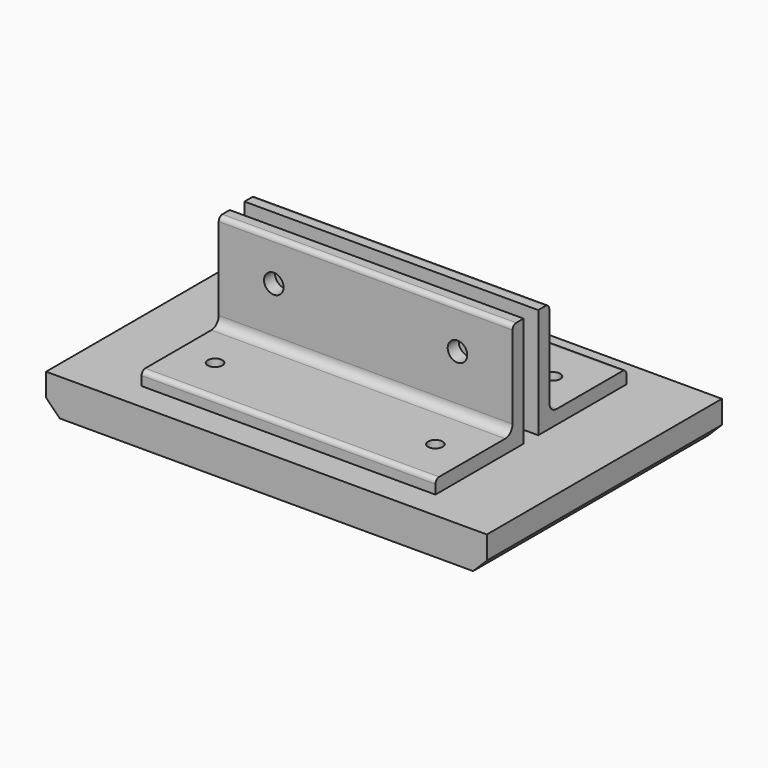
from build123d import *

# Parameters (mm, degrees)
F0_W           = 304.8
F0_H           = 25.4
F1_DEPTH       = 101.6
F3_DEPTH       = 101.6
F5_D           = 10.0838
F5_CSINK_D     = 19.8374
F5_CSINK_ANGLE = 82
F7_D           = 13.49248
F8_SIZE        = 9.525
F9_SIZE        = 9.525


with BuildPart() as f1:
    # F0 (on Front) → F1 (new body, symmetric)
    with BuildSketch(Plane.XZ):
        Rectangle(F0_W, F0_H)
    extrude(amount=F1_DEPTH, both=True)

    # F2 (on Right) → F3 (join, symmetric)
    with BuildSketch(Plane.YZ):
        with BuildLine():
            Line((-82.55, 19.05), (-82.55, 12.7))
            Line((-82.55, 12.7), (-6.35, 12.7))
            Line((-6.35, 12.7), (-6.35, 88.9))
            Line((-6.35, 88.9), (-12.7, 88.9))
            ThreePointArc((-12.7, 88.9), (-14.9450640303, 87.9700640303), (-15.875, 85.725))
            Line((-15.875, 85.725), (-15.875, 28.575))
            ThreePointArc((-15.875, 28.575), (-17.7348719395, 24.0848719395), (-22.225, 22.225))
            Line((-22.225, 22.225), (-79.375, 22.225))
            ThreePointArc((-79.375, 22.225), (-81.6200640303, 21.2950640303), (-82.55, 19.05))
        make_face()
        with BuildLine():
            Line((6.35, 88.9), (6.35, 12.7))
            Line((6.35, 12.7), (82.55, 12.7))
            Line((82.55, 12.7), (82.55, 19.05))
            ThreePointArc((82.55, 19.05), (81.6200640303, 21.2950640303), (79.375, 22.225))
            Line((79.375, 22.225), (22.225, 22.225))
            ThreePointArc((22.225, 22.225), (17.7348719395, 24.0848719395), (15.875, 28.575))
            Line((15.875, 28.575), (15.875, 85.725))
            ThreePointArc((15.875, 85.725), (14.9450640303, 87.9700640303), (12.7, 88.9))
            Line((12.7, 88.9), (6.35, 88.9))
        make_face()
    extrude(amount=F3_DEPTH, both=True)

    # F5 (through all)
    with Locations(Plane(origin=(0, 0, -12.7), x_dir=(1, 0, 0), z_dir=(0, 0, -1))):
        with Locations((-76.2, 50.8), (76.2, 50.8), (76.2, -50.8), (-76.2, -50.8)):
            CounterSinkHole(F5_D / 2, F5_CSINK_D / 2, counter_sink_angle=F5_CSINK_ANGLE)

    # F7 (through all)
    with Locations(Plane.XZ.offset(15.875)):
        with Locations((-63.5, 60.325), (63.5, 60.325)):
            Hole(F7_D / 2)

    # F8
    f8_edges = [f1.edges().sort_by_distance(p)[0] for p in [
        (152.4, 0, -12.7),
    ]]
    chamfer(f8_edges, length=F8_SIZE)

    # F9
    f9_edges = [f1.edges().sort_by_distance(p)[0] for p in [
        (-152.4, 0, -12.7),
    ]]
    chamfer(f9_edges, length=F9_SIZE)


solid = f1.part
